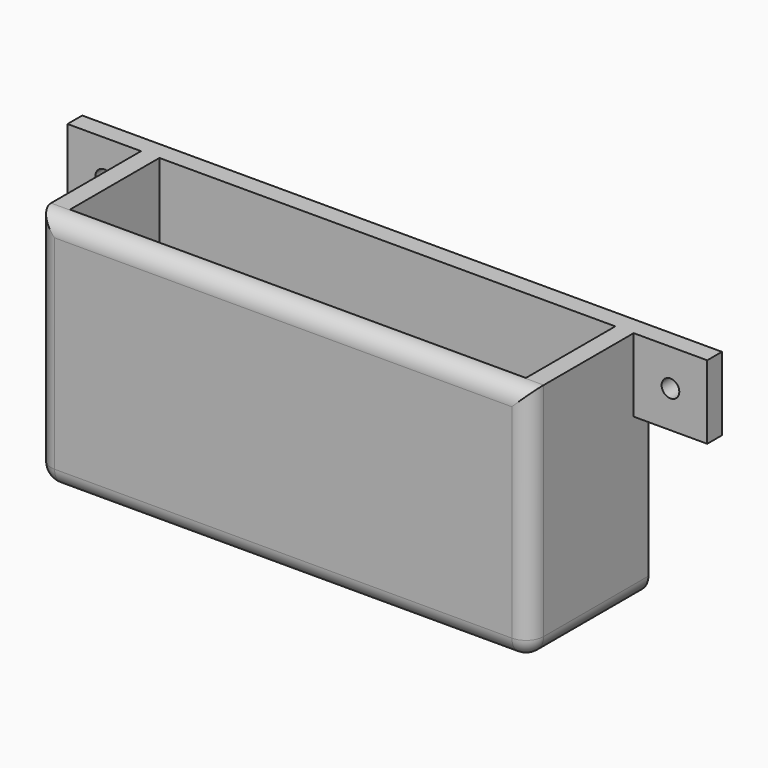
from build123d import *

# Parameters (mm, degrees)
F0_W     = 85.09
F0_H     = 41.275
F1_DEPTH = 25.654
F2_T     = -3.175
F3_W     = 12.7
F3_H     = 12.7
F3_R     = 1.524
F4_DEPTH = 3.175
F5_R     = 3.048


with BuildPart() as f1:
    # F0 (on Front) → F1 (new body)
    with BuildSketch(Plane.XZ):
        with Locations((40.730714, 20.6375)):
            Rectangle(F0_W, F0_H)
    extrude(amount=F1_DEPTH)

    # F2
    f2_openings = [f1.faces().sort_by_distance(p)[0] for p in [
        (40.730714, -12.827, 41.275),
    ]]
    offset(amount=F2_T, openings=f2_openings)

    # F3 (on face) → F4 (join)
    with BuildSketch(Plane(origin=(0, 0, 0), x_dir=(-1, 0, 0), z_dir=(0, 1, 0))):
        with Locations((8.164286, 34.925)):
            Rectangle(F3_W, F3_H)
        with Locations((8.164286, 34.925)):
            Circle(F3_R, mode=Mode.SUBTRACT)
        with Locations((-89.625714, 34.925)):
            Rectangle(F3_W, F3_H)
        with Locations((-89.625714, 34.925)):
            Circle(F3_R, mode=Mode.SUBTRACT)
    extrude(amount=-F4_DEPTH)

    # F5
    f5_edges = [f1.edges().sort_by_distance(p)[0] for p in [
        (40.730714, -25.654, 41.275),
        (-1.814286, -25.654, 20.6375),
        (40.730714, -25.654, 0),
        (83.275714, -25.654, 20.6375),
        (83.275714, -12.827, 0),
        (-1.814286, -12.827, 0),
    ]]
    fillet(f5_edges, radius=F5_R)


solid = f1.part
